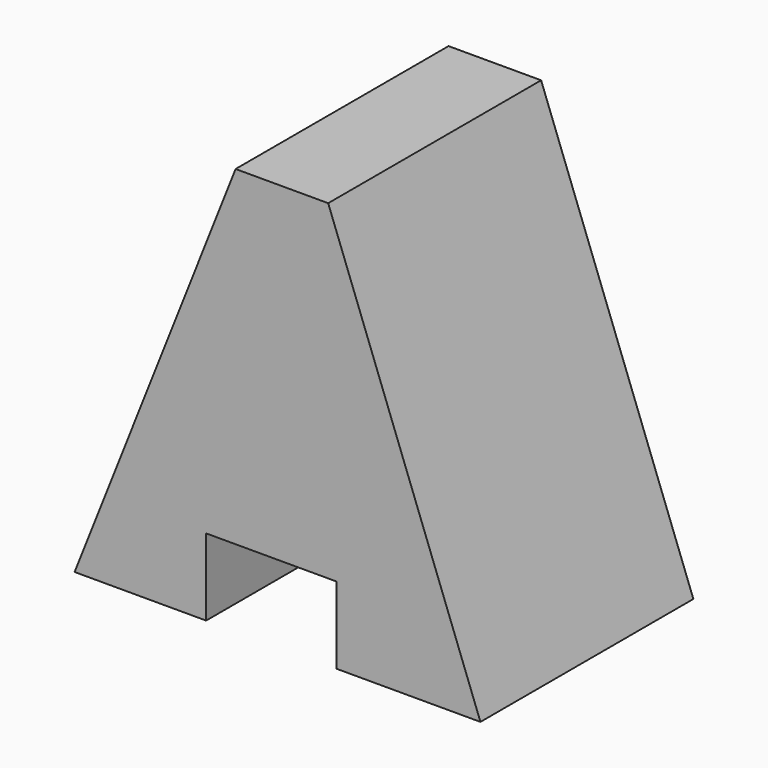
from build123d import *

# Parameters (mm, degrees)
F0_W     = 24.9907784164
F0_H     = 38.2269993424
F1_DEPTH = 38.1
F2_W     = 12.2484434396
F2_H     = 7.2107780725
F3_DEPTH = 24.9917784164
F5_DEPTH = 24.9917784164


with BuildPart() as f1:
    # F0 (on Right) → F1 (new body)
    with BuildSketch(Plane.YZ):
        with Locations((12.4953892082, 19.1134996712)):
            Rectangle(F0_W, F0_H)
    extrude(amount=F1_DEPTH)

    # F2 (on face) → F3 (cut, through all)
    with BuildSketch(Plane.XZ):
        with Locations((18.471444957, 3.6053890362)):
            Rectangle(F2_W, F2_H)
    extrude(amount=-F3_DEPTH, mode=Mode.SUBTRACT)

    # F4 (on face) → F5 (cut, through all)
    with BuildSketch(Plane.XZ):
        Polygon((0, 0), (15.113000758, 38.2269993424), (0, 38.2269993424), align=None)
        Polygon((38.1, 38.2269993424), (23.8054450601, 38.2269993424), (38.1, 0), align=None)
    extrude(amount=-F5_DEPTH, mode=Mode.SUBTRACT)


solid = f1.part
